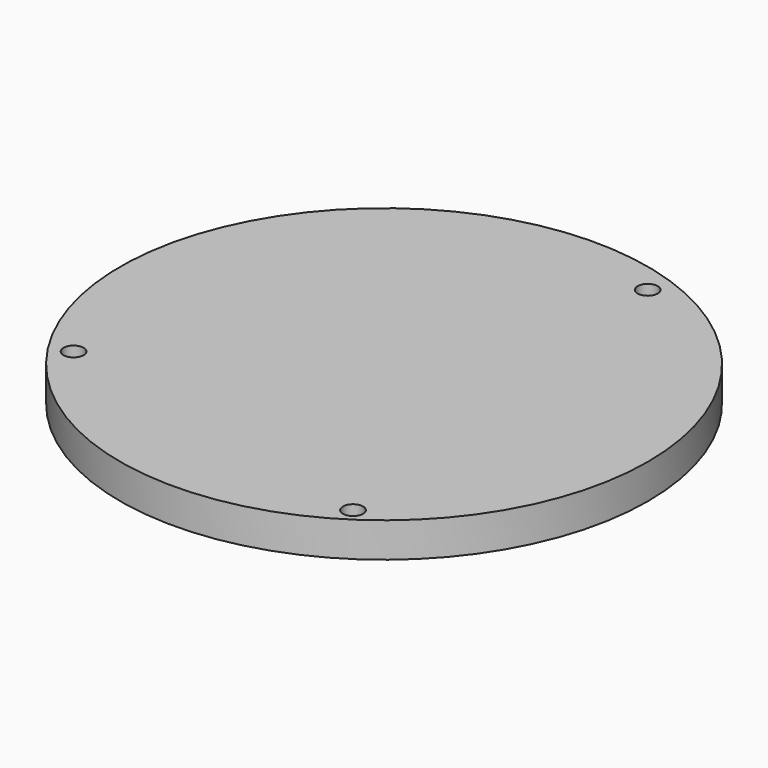
from build123d import *

# Parameters (mm, degrees)
F0_R     = 12
F0_R_2   = 0.457
F1_DEPTH = 1.58


with BuildPart() as f1:
    # F0 (on Top) → F1 (new body)
    with BuildSketch(Plane.XY):
        Circle(F0_R)
        with Locations((-9.21997, -6.121327)):
            Circle(F0_R_2, mode=Mode.SUBTRACT)
        with Locations((6.146759, -9.448563)):
            Circle(F0_R_2, mode=Mode.SUBTRACT)
        with Locations((3.734003, 10.31282)):
            Circle(F0_R_2, mode=Mode.SUBTRACT)
    extrude(amount=F1_DEPTH)


solid = f1.part
